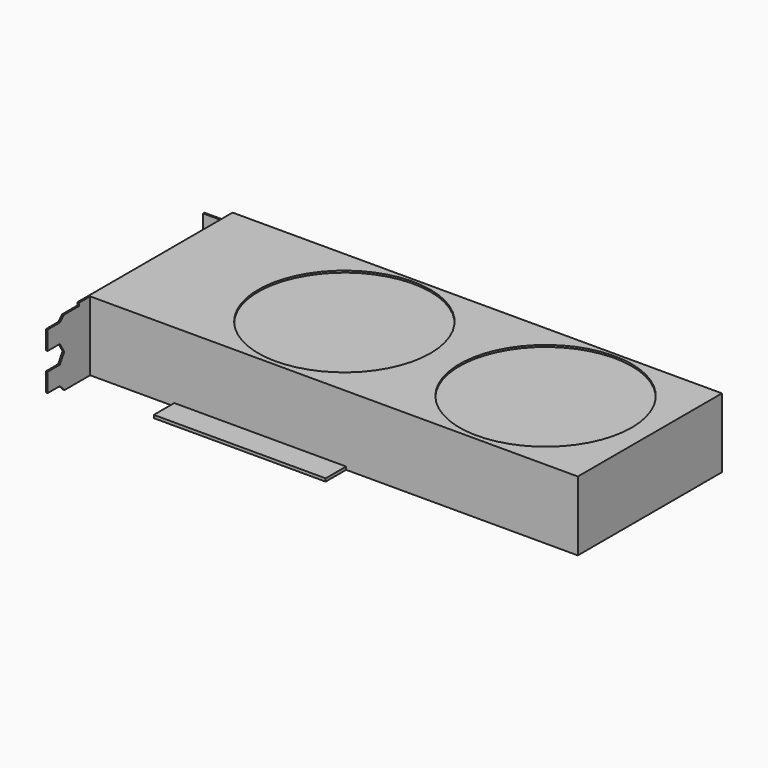
from build123d import *

# Parameters (mm, degrees)
F0_W      = 266.7
F0_H      = 98.5
F1_DEPTH  = 38
F2_R      = 47.092995
F3_DEPTH  = 1
F5_DEPTH  = 0.9
F6_W      = 0.9
F6_H      = 39.5
F7_DEPTH  = 11.3
F8_W      = 7
F8_H      = 5.4
F8_W_2    = 4.3
F8_H_2    = 3
F9_DEPTH  = 0.9
F10_W     = 94
F10_H     = 1.6
F11_DEPTH = 14


with BuildPart() as f1:
    # F0 (on Top) → F1 (new body)
    with BuildSketch(Plane.XY):
        Rectangle(F0_W, F0_H)
    extrude(amount=F1_DEPTH)

    # F2 (on face) → F3 (cut)
    with BuildSketch(Plane.XY.offset(38)):
        with Locations((-34.058255, 0.413742)):
            Circle(F2_R)
        with Locations((75.987235, 0.413742)):
            Circle(F2_R)
    extrude(amount=-F3_DEPTH, mode=Mode.SUBTRACT)

    # F4 (on face) → F5 (join)
    with BuildSketch(Plane(origin=(-133.35, 0, 0), x_dir=(0, -1, 0), z_dir=(-1, 0, 0))):
        Polygon((56.85, 38), (49.25, 38), (-49.25, 38), (-49.25, 0), (49.25, 0), (66.75, 0), (69.95, 3.2), (78.25, 3.2), (78.25, 13.5), (69.95, 13.5), (66.95, 18.5), (69.95, 23.5), (78.25, 23.5), (78.25, 33.8), (69.95, 33.8), (67.35, 36.4), (56.85, 36.4), align=None)
    extrude(amount=F5_DEPTH)

    # F6 (on face) → F7 (join)
    with BuildSketch(Plane(origin=(-134.25, 0, 0), x_dir=(0, -1, 0), z_dir=(-1, 0, 0))):
        with Locations((-43.6, 16.65)):
            Rectangle(F6_W, F6_H)
    extrude(amount=F7_DEPTH)

    # F8 (on face) → F9 (cut, through all)
    with BuildSketch(Plane(origin=(0, 44.05, 0), x_dir=(-1, 0, 0), z_dir=(0, 1, 0))):
        with Locations((137.75, -0.4)):
            Rectangle(F8_W, F8_H)
        with Locations((143.4, 26.5)):
            Rectangle(F8_W_2, F8_H_2)
        with Locations((143.4, 6.2)):
            Rectangle(F8_W_2, F8_H_2)
        with BuildLine():
            ThreePointArc((141.45, 20.4), (139.25, 22.6), (137.05, 20.4))
            Line((137.05, 20.4), (137.05, 18.9))
            ThreePointArc((137.05, 18.9), (139.25, 16.7), (141.45, 18.9))
            Line((141.45, 18.9), (141.45, 20.4))
        make_face()
    extrude(amount=-F9_DEPTH, mode=Mode.SUBTRACT)

    # F10 (on face) → F11 (join)
    with BuildSketch(Plane.XZ.offset(49.25)):
        with Locations((-40.35, 0.8)):
            Rectangle(F10_W, F10_H)
    extrude(amount=F11_DEPTH)


solid = f1.part
